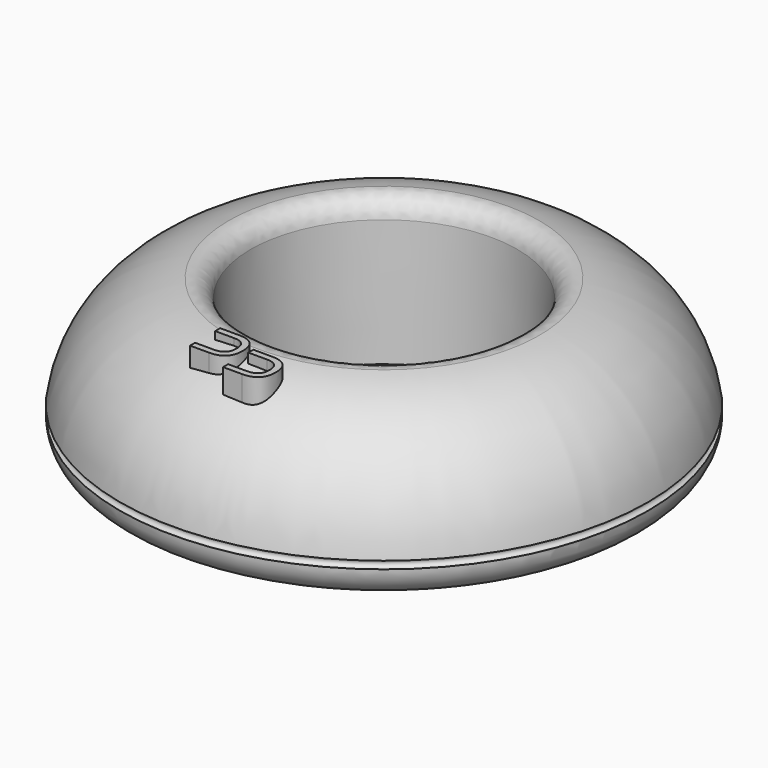
from build123d import *

# Parameters (mm, degrees)
F2_R     = 5
F4_DEPTH = 41


with BuildPart() as f1:
    # F0 (on Front) → F1 (revolve)
    with BuildSketch(Plane.XZ):
        with BuildLine():
            Line((-62, 0), (0, 0))
            Line((0, 0), (0, 1.5))
            Line((0, 1.5), (-34.5, 1.5))
            Line((-34.5, 1.5), (-35.5, 40))
            ThreePointArc((-35.5, 40), (-58.3596259812, 31.4510698784), (-70, 10))
            ThreePointArc((-70, 10), (-69, 9), (-70, 8))
            ThreePointArc((-70, 8), (-67.6568542495, 2.3431457505), (-62, 0))
        make_face()
    revolve(axis=Axis((0, 0, 0.75), (0, 0, 1)))

    # F2
    f2_edges = [f1.edges().sort_by_distance(p)[0] for p in [
        (35.5, 0, 40),
    ]]
    fillet(f2_edges, radius=F2_R)

    # F3 (on Top) → F4 (join)
    with BuildSketch(Plane.XY):
        with BuildLine():
            Line((-10.670827581, -42.5959917847), (-5.6708272125, -42.5959917847))
            add(Edge.make_bspline(
                [(-2.3374943705, -45.9293253637), (-2.3374943705, -43.7071029777), (-3.4486055635, -42.5959917847), (-5.6708272125, -42.5959917847)],
                knots=[0, 0, 0, 0, 1, 1, 1, 1], degree=3))
            add(Edge.make_bspline(
                [(-5.6708272125, -49.2626582057), (-3.4486055635, -49.2626582057), (-2.3374943705, -48.1515470127), (-2.3374943705, -45.9293253637)],
                knots=[0, 0, 0, 0, 1, 1, 1, 1], degree=3))
            Line((-5.6708272125, -49.2626582057), (-10.670827581, -49.2626582057))
            Line((-10.670827581, -49.2626582057), (-10.670827581, -50.9293249952))
            Line((-10.670827581, -50.9293249952), (-5.6708272125, -50.9293249952))
            add(Edge.make_bspline(
                [(-0.670827581, -45.9293253637), (-0.670827581, -49.2626582057), (-2.3374943705, -50.9293249952), (-5.6708272125, -50.9293249952)],
                knots=[0, 0, 0, 0, 1, 1, 1, 1], degree=3))
            add(Edge.make_bspline(
                [(-5.6708272125, -40.9293249952), (-2.3374943705, -40.9293249952), (-0.670827581, -42.5959917847), (-0.670827581, -45.9293253637)],
                knots=[0, 0, 0, 0, 1, 1, 1, 1], degree=3))
            Line((-5.6708272125, -40.9293249952), (-10.670827581, -40.9293249952))
            Line((-10.670827581, -40.9293249952), (-10.670827581, -42.5959917847))
        make_face()
        with BuildLine():
            Line((0.6868453929, -45.8371023778), (5.6868457614, -45.8371023778))
            add(Edge.make_bspline(
                [(9.0201786034, -49.1704359568), (9.0201786034, -46.9482135708), (7.9090674104, -45.8371023778), (5.6868457614, -45.8371023778)],
                knots=[0, 0, 0, 0, 1, 1, 1, 1], degree=3))
            add(Edge.make_bspline(
                [(5.6868457614, -52.5037687988), (7.9090674104, -52.5037687988), (9.0201786034, -51.3926576058), (9.0201786034, -49.1704359568)],
                knots=[0, 0, 0, 0, 1, 1, 1, 1], degree=3))
            Line((5.6868457614, -52.5037687988), (0.6868453929, -52.5037687988))
            Line((0.6868453929, -52.5037687988), (0.6868453929, -54.1704355883))
            Line((0.6868453929, -54.1704355883), (5.6868457614, -54.1704355883))
            add(Edge.make_bspline(
                [(10.6868453929, -49.1704359568), (10.6868453929, -52.5037687988), (9.0201786034, -54.1704355883), (5.6868457614, -54.1704355883)],
                knots=[0, 0, 0, 0, 1, 1, 1, 1], degree=3))
            add(Edge.make_bspline(
                [(5.6868457614, -44.1704355883), (9.0201786034, -44.1704355883), (10.6868453929, -45.8371023778), (10.6868453929, -49.1704359568)],
                knots=[0, 0, 0, 0, 1, 1, 1, 1], degree=3))
            Line((5.6868457614, -44.1704355883), (0.6868453929, -44.1704355883))
            Line((0.6868453929, -44.1704355883), (0.6868453929, -45.8371023778))
        make_face()
    extrude(amount=F4_DEPTH)


solid = f1.part
